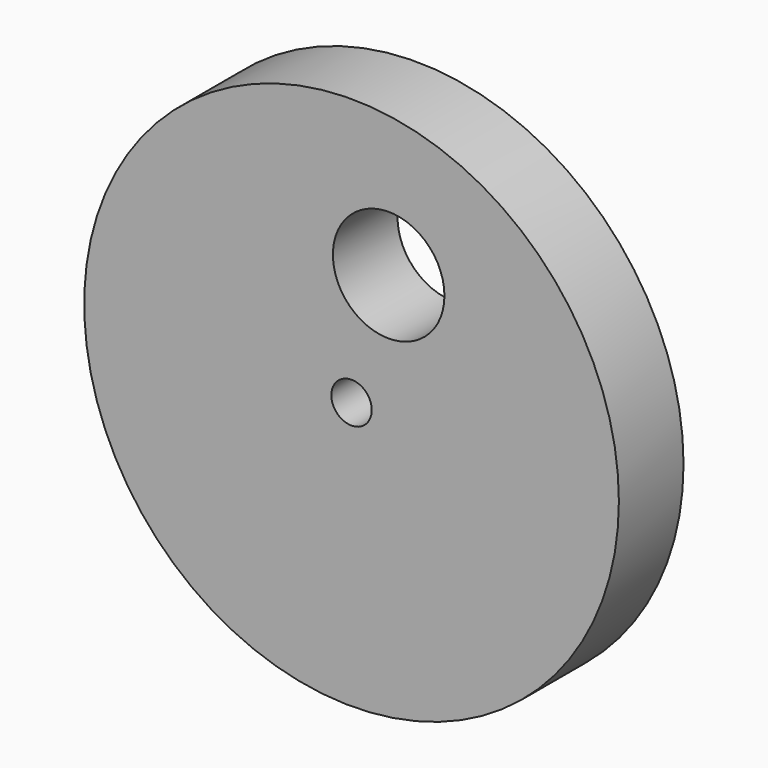
from build123d import *

# Parameters (mm, degrees)
F0_R     = 21.0058
F0_R_2   = 1.5875
F0_R_3   = 4.381964
F1_DEPTH = 6.35


with BuildPart() as f1:
    # F0 (on Front) → F1 (new body)
    with BuildSketch(Plane.XZ):
        Circle(F0_R)
        Circle(F0_R_2, mode=Mode.SUBTRACT)
        with Locations((2.916137, 9.765684)):
            Circle(F0_R_3, mode=Mode.SUBTRACT)
    extrude(amount=F1_DEPTH)


solid = f1.part
